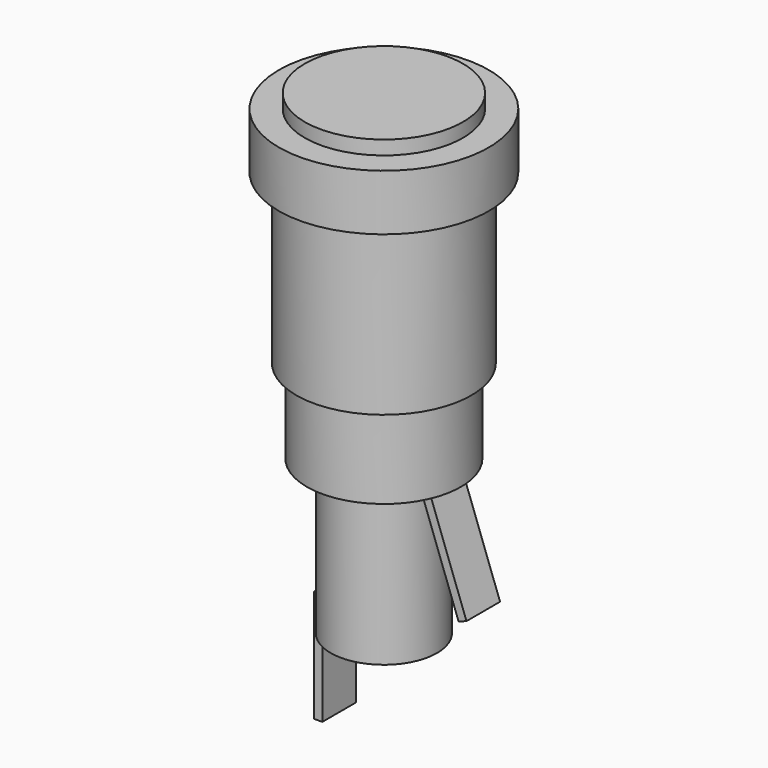
from build123d import *

# Parameters (mm, degrees)
F0_W     = 0.6
F0_H     = 2
F0_H_2   = 6
F2_DEPTH = 1.5


with BuildPart() as f1:
    # F0 (on Front) → F1 (revolve)
    with BuildSketch(Plane.XZ):
        Polygon((0, 5), (-5.65, 5), (-5.65, 4), (-7.5, 4), (-7.5, 0), (-6.25, 0), (-6.25, -12), (-5.5, -12), (-5.5, -18), (-3.8, -18), (-3.8, -27), (-3.2, -27), (-3.2, -29), (0, -29), align=None)
        with Locations((-3.5, -28)):
            Rectangle(F0_W, F0_H)
    revolve(axis=Axis((0, 0, -12), (0, 0, 1)))

    # F0 (on Front) → F2 (join, symmetric)
    with BuildSketch(Plane.XZ):
        with Locations((-3.5, -32)):
            Rectangle(F0_W, F0_H_2)
        Polygon((4.438507, -18), (3.8, -18), (6.536161, -25.517541), (7.099977, -25.312329), align=None)
        with Locations((-3.5, -28)):
            Rectangle(F0_W, F0_H)
    extrude(amount=F2_DEPTH, both=True)


solid = f1.part
